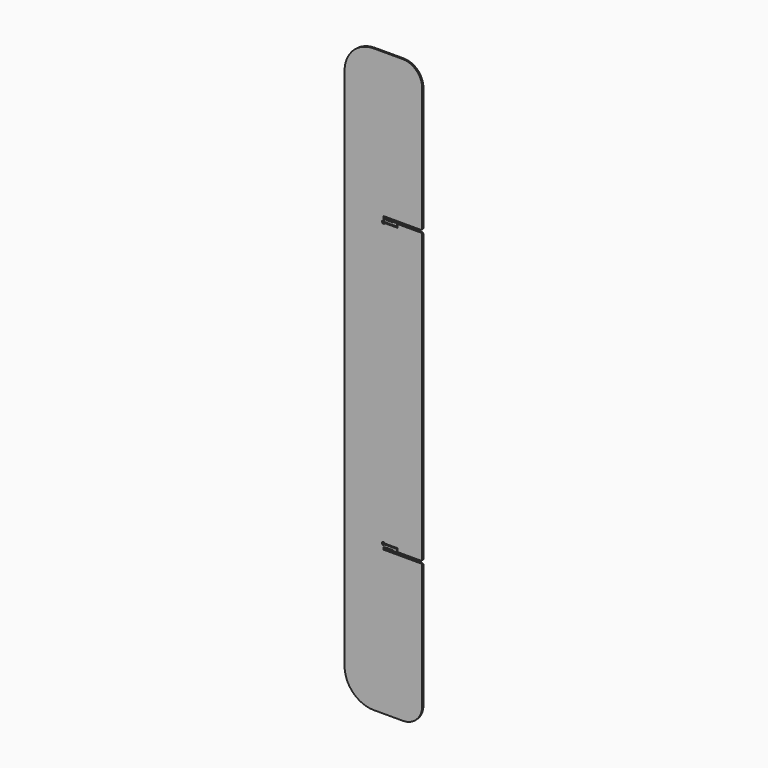
from build123d import *

# Parameters (mm, degrees)
F1_DEPTH      = 0.75
F1_DEPTH_BACK = 0.75


with BuildPart() as f1:
    # F0 (on Front) → F1 (new body, two sides)
    with BuildSketch(Plane.XZ) as f1_sk:
        with BuildLine():
            ThreePointArc((0, 1.175), (-0.070711, 1.345711), (0.1, 1.275))
            Line((0.1, 1.275), (3, 1.275))
            Line((3, 1.275), (3.2, 1.475))
            Line((3.2, 1.475), (9.792945, 1.475))
            ThreePointArc((9.792945, 1.475), (9.914697, 1.433671), (9.98613, 1.326764))
            Line((9.98613, 1.326764), (10.133975, 0.775))
            Line((10.133975, 0.775), (13.051132, 0.775))
            ThreePointArc((13.051132, 0.775), (13.127669, 0.790224), (13.192553, 0.833579))
            Line((13.192553, 0.833579), (13.941421, 1.582447))
            ThreePointArc((13.941421, 1.582447), (13.984776, 1.647331), (14, 1.723868))
            Line((14, 1.723868), (14, 3.55))
            ThreePointArc((14, 3.55), (13.941421, 3.691421), (13.8, 3.75))
            Line((13.8, 3.75), (1.414214, 3.75))
            ThreePointArc((1.414214, 3.75), (0.866025, 3.025255), (0, 2.75))
            ThreePointArc((0, 2.75), (-1.224745, 5.116025), (1.414214, 4.75))
            Line((1.414214, 4.75), (14.3, 4.75))
            ThreePointArc((14.3, 4.75), (14.441421, 4.691421), (14.5, 4.55))
            Line((14.5, 4.55), (14.5, 1.475))
            ThreePointArc((14.5, 1.475), (14.558579, 1.333579), (14.7, 1.275))
            Line((14.7, 1.275), (39, 1.275))
            Line((39, 1.275), (40, 2.275))
            Line((40, 2.275), (40, 150))
            Line((40, 150), (40, 297.725))
            Line((40, 297.725), (39, 298.725))
            Line((39, 298.725), (14.7, 298.725))
            ThreePointArc((14.7, 298.725), (14.558579, 298.666421), (14.5, 298.525))
            Line((14.5, 298.525), (14.5, 295.45))
            ThreePointArc((14.5, 295.45), (14.441421, 295.308579), (14.3, 295.25))
            Line((14.3, 295.25), (1.414214, 295.25))
            ThreePointArc((1.414214, 295.25), (-1.224745, 294.883975), (0, 297.25))
            ThreePointArc((0, 297.25), (0.866025, 296.974745), (1.414214, 296.25))
            Line((1.414214, 296.25), (13.8, 296.25))
            ThreePointArc((13.8, 296.25), (13.941421, 296.308579), (14, 296.45))
            Line((14, 296.45), (14, 298.276132))
            ThreePointArc((14, 298.276132), (13.984776, 298.352669), (13.941421, 298.417553))
            Line((13.941421, 298.417553), (13.192553, 299.166421))
            ThreePointArc((13.192553, 299.166421), (13.127669, 299.209776), (13.051132, 299.225))
            Line((13.051132, 299.225), (10.133975, 299.225))
            Line((10.133975, 299.225), (9.98613, 298.673236))
            ThreePointArc((9.98613, 298.673236), (9.914697, 298.566329), (9.792945, 298.525))
            Line((9.792945, 298.525), (3.2, 298.525))
            Line((3.2, 298.525), (3, 298.725))
            Line((3, 298.725), (0.1, 298.725))
            ThreePointArc((0.1, 298.725), (-0.070711, 298.654289), (0, 298.825))
            Line((0, 298.825), (0, 300))
            Line((0, 300), (0, 301.175))
            ThreePointArc((0, 301.175), (-0.070711, 301.345711), (0.1, 301.275))
            Line((0.1, 301.275), (14.7, 301.275))
            Line((14.7, 301.275), (39, 301.275))
            Line((39, 301.275), (40, 302.275))
            Line((40, 302.275), (40, 430))
            ThreePointArc((40, 430), (34.142136, 444.142136), (20, 450))
            Line((20, 450), (-10, 450))
            ThreePointArc((-10, 450), (-31.213203, 441.213203), (-40, 420))
            Line((-40, 420), (-40, -120))
            ThreePointArc((-40, -120), (-31.213203, -141.213203), (-10, -150))
            Line((-10, -150), (20, -150))
            ThreePointArc((20, -150), (34.142136, -144.142136), (40, -130))
            Line((40, -130), (40, -2.275))
            Line((40, -2.275), (39, -1.275))
            Line((39, -1.275), (14.7, -1.275))
            Line((14.7, -1.275), (0.1, -1.275))
            ThreePointArc((0.1, -1.275), (-0.070711, -1.345711), (0, -1.175))
            Line((0, -1.175), (0, 0))
            Line((0, 0), (0, 1.175))
        make_face()
    extrude(amount=F1_DEPTH)
    extrude(f1_sk.sketch, amount=-F1_DEPTH_BACK)


solid = f1.part
